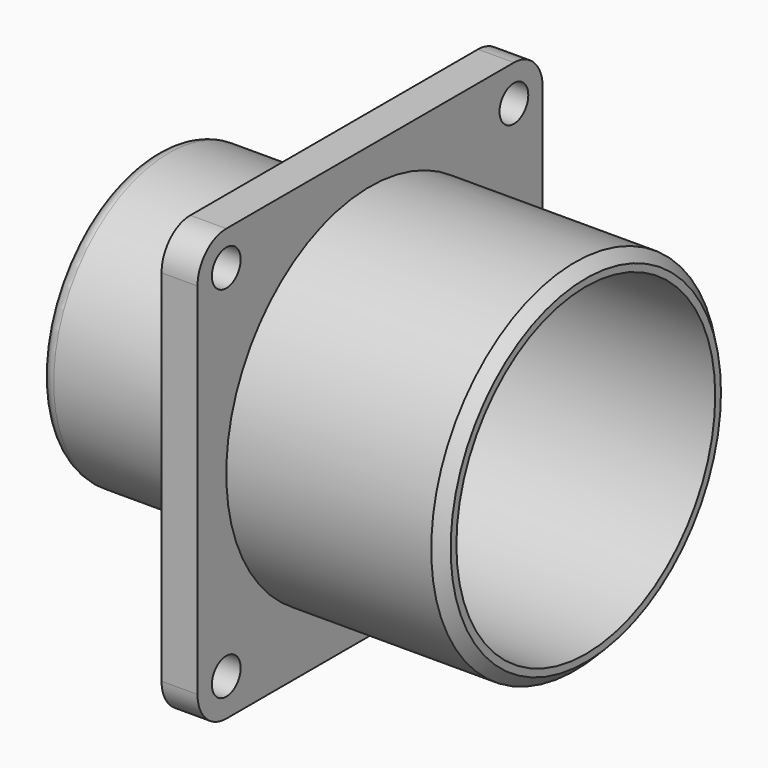
from build123d import *

# Parameters (mm, degrees)
F0_R     = 3.175
F0_R_2   = 19.05
F1_DEPTH = 6.35
F2_R     = 31.75
F2_R_2   = 28.575
F3_DEPTH = 44.45
F4_SIZE2 = 1.905
F4_SIZE  = 1.905
F5_R     = 25.4
F5_R_2   = 19.05
F6_DEPTH = 31.75
F7_R     = 2.54


with BuildPart() as f1:
    # F0 (on Right) → F1 (new body)
    with BuildSketch(Plane.YZ):
        with BuildLine():
            ThreePointArc((-38.1, -31.75), (-36.240128, -36.240128), (-31.75, -38.1))
            Line((-31.75, -38.1), (31.75, -38.1))
            ThreePointArc((31.75, -38.1), (36.240128, -36.240128), (38.1, -31.75))
            Line((38.1, -31.75), (38.1, 31.75))
            ThreePointArc((38.1, 31.75), (36.240128, 36.240128), (31.75, 38.1))
            Line((31.75, 38.1), (-31.75, 38.1))
            ThreePointArc((-31.75, 38.1), (-36.240128, 36.240128), (-38.1, 31.75))
            Line((-38.1, 31.75), (-38.1, -31.75))
        make_face()
        with Locations((-31.7495, -31.498018)):
            Circle(F0_R, mode=Mode.SUBTRACT)
        with Locations((31.75, -31.75)):
            Circle(F0_R, mode=Mode.SUBTRACT)
        with Locations((-31.7495, 32.001982)):
            Circle(F0_R, mode=Mode.SUBTRACT)
        Circle(F0_R_2, mode=Mode.SUBTRACT)
        with Locations((31.75, 31.75)):
            Circle(F0_R, mode=Mode.SUBTRACT)
    extrude(amount=F1_DEPTH)

    # F2 (on Right) → F3 (join)
    with BuildSketch(Plane.YZ):
        Circle(F2_R)
        Circle(F2_R_2, mode=Mode.SUBTRACT)
    extrude(amount=F3_DEPTH)

    # F4
    f4_edges = [f1.edges().sort_by_distance(p)[0] for p in [
        (44.45, -31.75, 0),
    ]]
    chamfer(f4_edges, length=F4_SIZE, length2=F4_SIZE2)

    # F5 (on Right) → F6 (join)
    with BuildSketch(Plane.YZ):
        Circle(F5_R)
        Circle(F5_R_2, mode=Mode.SUBTRACT)
    extrude(amount=-F6_DEPTH)

    # F7
    f7_edges = [f1.edges().sort_by_distance(p)[0] for p in [
        (-31.75, -25.4, 0),
    ]]
    fillet(f7_edges, radius=F7_R)


solid = f1.part
